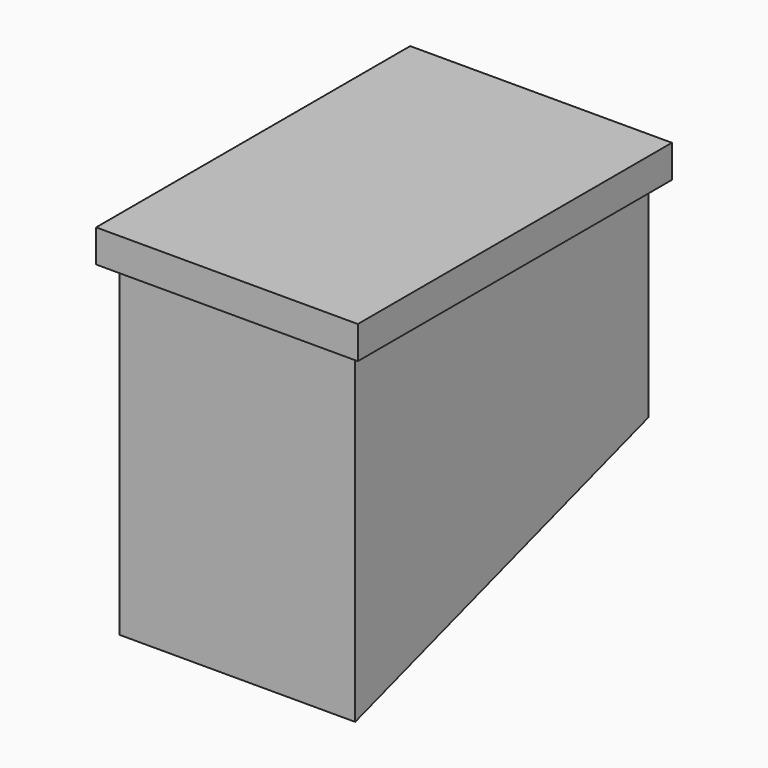
from build123d import *

# Parameters (mm, degrees)
F0_W     = 360
F0_H     = 560
F2_DEPTH = 500
F1_W     = 360
F1_H     = 560
F3_W     = 400
F3_H     = 600
F4_DEPTH = 50
F6_DEPTH = 800


with BuildPart() as f2:
    # F0 (on Top) → F2 (new body)
    with BuildSketch(Plane.XY):
        Rectangle(F0_W, F0_H)
    extrude(amount=F2_DEPTH)


with BuildPart() as f2b:
    # F1 (on face) → F2, piece 2 (new body)
    with BuildSketch(Plane.XY):
        Rectangle(F1_W, F1_H)
    extrude(amount=F2_DEPTH)


with BuildPart() as f4:
    # F3 (on face) → F4 (new body)
    with BuildSketch(Plane.XY.offset(500)):
        Rectangle(F3_W, F3_H)
    extrude(amount=F4_DEPTH)


with BuildPart() as f6_tool:
    # F5 (on face) → F6 (new body)
    with BuildSketch(Plane.YZ.offset(180)):
        Polygon((280, 181.9550298904), (-280, 0), (280, 0), align=None)
    extrude(amount=-F6_DEPTH)


with BuildPart() as f2_1:
    add(f2.part)

    # F6: cut by f6_tool
    add(f6_tool.part, mode=Mode.SUBTRACT)


with BuildPart() as f2b_1:
    add(f2b.part)

    # F6: cut by f6_tool
    add(f6_tool.part, mode=Mode.SUBTRACT)


solid = Compound([f4.part, f2_1.part, f2b_1.part])
